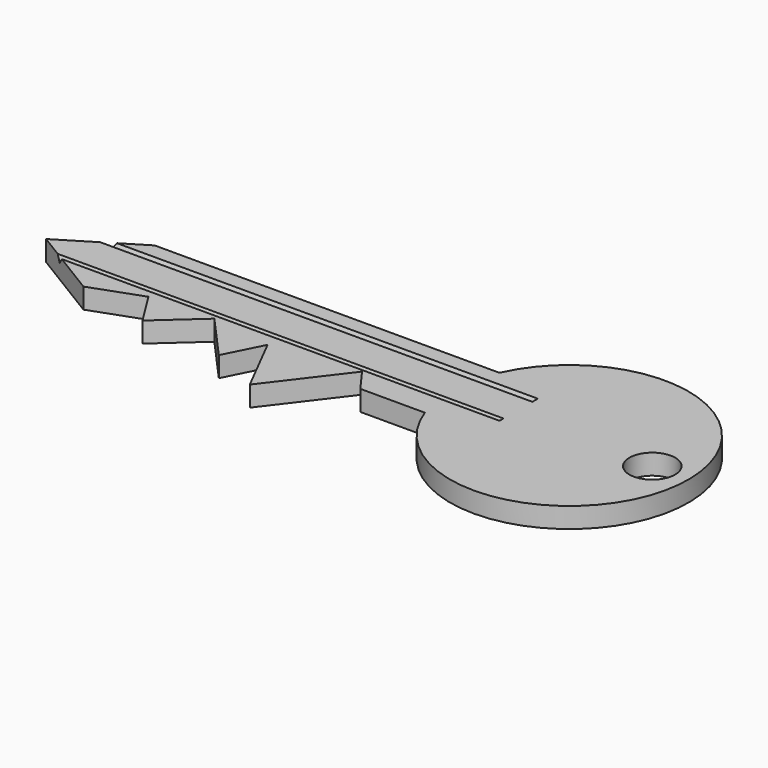
from build123d import *

# Parameters (mm, degrees)
F0_R     = 3.93993
F1_DEPTH = 3.5
F4_DEPTH = 150


with BuildPart() as f1:
    # F0 (on Top) → F1 (new body)
    with BuildSketch(Plane.XY):
        with BuildLine():
            Line((-30.424483, -6.945617), (-19.31924, -6.945617))
            ThreePointArc((-19.31924, -6.945617), (20.515116, -0.777576), (-18.738052, 8.388087))
            Line((-18.738052, 8.388087), (-78.088284, 8.388087))
            Line((-78.088284, 8.388087), (-90.650834, 0.721235))
            Line((-90.650834, 0.721235), (-78.088284, -6.945617))
            Line((-78.088284, -6.945617), (-69.405347, -3.804978))
            Line((-69.405347, -3.804978), (-65.710478, -9.716768))
            Line((-65.710478, -9.716768), (-58.505483, -3.250748))
            Line((-58.505483, -3.250748), (-51.40605, -11.161547))
            Line((-51.40605, -11.161547), (-48.159853, -4.728695))
            Line((-48.159853, -4.728695), (-42.802293, -15.259069))
            Line((-42.802293, -15.259069), (-33.380378, -2.881262))
            Line((-33.380378, -2.881262), (-30.424483, -6.945617))
        make_face()
        with Locations((14.283421, 0)):
            Circle(F0_R, mode=Mode.SUBTRACT)
    extrude(amount=F1_DEPTH)

    # F3 (on offset) → F4 (cut)
    with BuildSketch(Plane.YZ.offset(-10)):
        Polygon((5.187124, 2.278307), (6.987329, 6.371124), (2.650907, 7.108018), align=None)
        Polygon((-2.074363, 2.495993), (-0.437801, 6.506958), (-4.136456, 7.135476), align=None)
    extrude(amount=-F4_DEPTH, mode=Mode.SUBTRACT)


solid = f1.part
